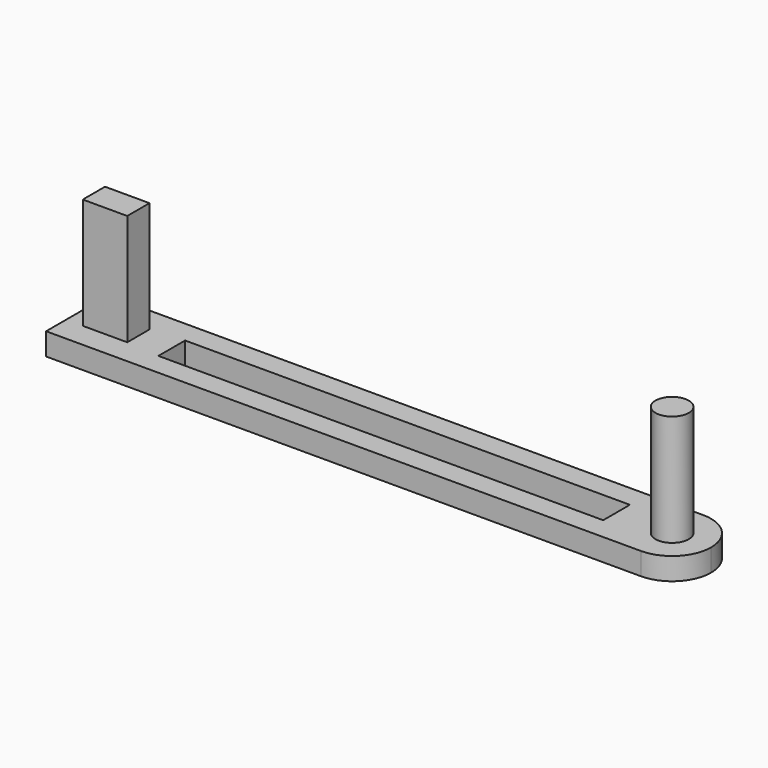
from build123d import *

# Parameters (mm, degrees)
F1_DEPTH = 2
F2_DEPTH = 12
F3_DEPTH = 12


with BuildPart() as f1:
    # F0 (on Top) → F1 (new body)
    with BuildSketch(Plane.XY):
        with BuildLine():
            Line((3.5, 3.5), (3.5, 0))
            Line((3.5, 0), (5, 0))
            Line((5, 0), (5, 1.5))
            Line((5, 1.5), (45, 1.5))
            Line((45, 1.5), (45, 0))
            Line((45, 0), (46.5, 0))
            ThreePointArc((46.5, 0), (47.525126, 2.474874), (50, 3.5))
            Line((50, 3.5), (3.5, 3.5))
        make_face()
        with BuildLine():
            Line((5, 0), (3.5, 0))
            Line((3.5, 0), (3.5, -3.5))
            Line((3.5, -3.5), (50, -3.5))
            ThreePointArc((50, -3.5), (47.525126, -2.474874), (46.5, 0))
            Line((46.5, 0), (45, 0))
            Line((45, 0), (45, -1.5))
            Line((45, -1.5), (5, -1.5))
            Line((5, -1.5), (5, 0))
        make_face()
        Polygon((3.5, -3.5), (3.5, 0), (3.5, 3.5), (0, 3.5), (-3.5, 3.5), (-3.5, -3.5), (0, -3.5), align=None)
        Polygon((2, 1.25), (2, 0), (2, -1.25), (-2, -1.25), (-2, 1.25), align=None, mode=Mode.SUBTRACT)
        Polygon((2, -1.25), (2, 0), (2, 1.25), (-2, 1.25), (-2, -1.25), align=None)
        with BuildLine():
            ThreePointArc((46.5, 0), (47.525126, -2.474874), (50, -3.5))
            ThreePointArc((50, -3.5), (52.474874, -2.474874), (53.5, 0))
            ThreePointArc((53.5, 0), (52.474874, 2.474874), (50, 3.5))
            ThreePointArc((50, 3.5), (47.525126, 2.474874), (46.5, 0))
        make_face()
        with BuildLine():
            ThreePointArc((51.5, 0), (50, -1.5), (48.5, 0))
            ThreePointArc((48.5, 0), (50, 1.5), (51.5, 0))
        make_face(mode=Mode.SUBTRACT)
        with BuildLine():
            ThreePointArc((51.5, 0), (50, 1.5), (48.5, 0))
            ThreePointArc((48.5, 0), (50, -1.5), (51.5, 0))
        make_face()
    extrude(amount=F1_DEPTH)

    # F0 (on Top) → F2 (join)
    with BuildSketch(Plane.XY):
        Polygon((2, -1.25), (2, 0), (2, 1.25), (-2, 1.25), (-2, -1.25), align=None)
    extrude(amount=F2_DEPTH)

    # F0 (on Top) → F3 (join)
    with BuildSketch(Plane.XY):
        with BuildLine():
            ThreePointArc((51.5, 0), (50, 1.5), (48.5, 0))
            ThreePointArc((48.5, 0), (50, -1.5), (51.5, 0))
        make_face()
    extrude(amount=F3_DEPTH)


solid = f1.part
